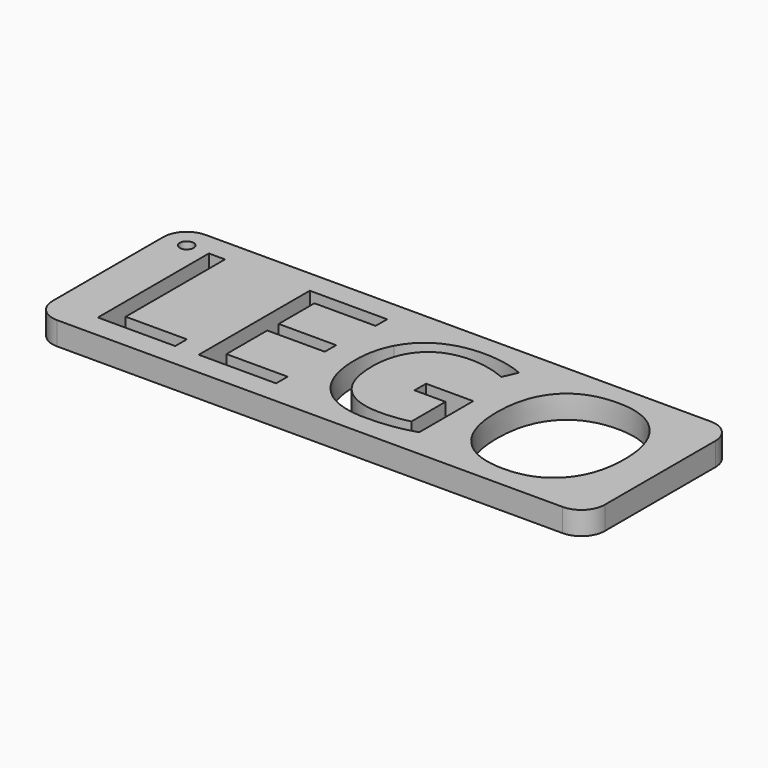
from build123d import *

# Parameters (mm, degrees)
F0_R     = 1.5
F1_DEPTH = 5


with BuildPart() as f1:
    # F0 (on Top) → F1 (new body)
    with BuildSketch(Plane.XY):
        with BuildLine():
            ThreePointArc((0, 5), (1.4644660941, 1.4644660941), (5, 0))
            Line((5, 0), (114.2781882361, 0))
            ThreePointArc((114.2781882361, 0), (117.8523813388, 1.4804792577), (119.3328605965, 5.0546723604))
            Line((119.3328605965, 5.0546723604), (119.3328605965, 34.9453276396))
            ThreePointArc((119.3328605965, 34.9453276396), (117.8523813388, 38.5195207423), (114.2781882361, 40))
            Line((114.2781882361, 40), (5.0546723604, 40))
            ThreePointArc((5.0546723604, 40), (1.4804792577, 38.5195207423), (0, 34.9453276396))
            Line((0, 34.9453276396), (0, 5))
        make_face()
        Polygon((26.4751705242, 5.0546723604), (9.7535998563, 5.0546723604), (9.7535998563, 35.0510824042), (13.2397223631, 35.0510824042), (13.2397223631, 8.2125347441), (26.4751705242, 8.2125347441), align=None, mode=Mode.SUBTRACT)
        Polygon((48.2847730993, 8.1731435293), (48.2847730993, 5.0546723604), (31.5632024314, 5.0546723604), (31.5632024314, 35.0510824042), (48.2847730993, 35.0510824042), (48.2847730993, 31.9523068427), (35.0493249381, 31.9523068427), (35.0493249381, 22.2883288202), (47.483818399, 22.2883288202), (47.483818399, 19.2092488661), (35.0493249381, 19.2092488661), (35.0493249381, 8.1731435293), align=None, mode=Mode.SUBTRACT)
        with Locations((5, 35)):
            Circle(F0_R, mode=Mode.SUBTRACT)
        with BuildLine():
            Line((68.1248149361, 17.6532958829), (68.1248149361, 20.7717670518))
            Line((68.1248149361, 20.7717670518), (78.3205743578, 20.7717670518))
            Line((78.3205743578, 20.7717670518), (78.3205743578, 6.1838871837))
            add(Edge.make_bspline(
                [(78.3205743578, 6.1838871837), (75.9374058645, 5.4223236982), (73.4754549417, 5.0316941518)],
                knots=[0, 0, 0, 1, 1, 1], degree=2))
            add(Edge.make_bspline(
                [(73.4754549417, 5.0316941518), (71.0135040188, 4.6410646054), (67.7702940032, 4.6410646054)],
                knots=[0, 0, 0, 1, 1, 1], degree=2))
            add(Edge.make_bspline(
                [(67.7702940032, 4.6410646054), (60.9621790512, 4.6410646054), (57.1674920288, 8.695077125)],
                knots=[0, 0, 0, 1, 1, 1], degree=2))
            add(Edge.make_bspline(
                [(57.1674920288, 8.695077125), (53.3728050064, 12.7490896446), (53.3728050064, 20.0495947811)],
                knots=[0, 0, 0, 1, 1, 1], degree=2))
            add(Edge.make_bspline(
                [(53.3728050064, 20.0495947811), (53.3728050064, 24.7305841357), (55.2504529103, 28.2495326547)],
                knots=[0, 0, 0, 1, 1, 1], degree=2))
            add(Edge.make_bspline(
                [(55.2504529103, 28.2495326547), (57.1281008141, 31.7684811738), (60.6568971368, 33.623150869)],
                knots=[0, 0, 0, 1, 1, 1], degree=2))
            add(Edge.make_bspline(
                [(60.6568971368, 33.623150869), (64.1856934595, 35.4778205642), (68.9192044338, 35.4778205642)],
                knots=[0, 0, 0, 1, 1, 1], degree=2))
            add(Edge.make_bspline(
                [(68.9192044338, 35.4778205642), (73.7249326352, 35.4778205642), (77.867575388, 33.7183463046)],
                knots=[0, 0, 0, 1, 1, 1], degree=2))
            Line((77.867575388, 33.7183463046), (76.5151436811, 30.6392663505))
            add(Edge.make_bspline(
                [(76.5151436811, 30.6392663505), (72.4512833578, 32.3593493952), (68.6959875501, 32.3593493952)],
                knots=[0, 0, 0, 1, 1, 1], degree=2))
            add(Edge.make_bspline(
                [(68.6959875501, 32.3593493952), (63.2206086978, 32.3593493952), (60.1415287436, 29.0997263734)],
                knots=[0, 0, 0, 1, 1, 1], degree=2))
            add(Edge.make_bspline(
                [(60.1415287436, 29.0997263734), (57.0624487895, 25.8401033516), (57.0624487895, 20.0495947811)],
                knots=[0, 0, 0, 1, 1, 1], degree=2))
            add(Edge.make_bspline(
                [(57.0624487895, 20.0495947811), (57.0624487895, 13.9767825048), (60.0266377006, 10.8386157285)],
                knots=[0, 0, 0, 1, 1, 1], degree=2))
            add(Edge.make_bspline(
                [(60.0266377006, 10.8386157285), (62.9908266116, 7.7004489522), (68.7353787649, 7.7004489522)],
                knots=[0, 0, 0, 1, 1, 1], degree=2))
            add(Edge.make_bspline(
                [(68.7353787649, 7.7004489522), (71.8538499338, 7.7004489522), (74.8278866486, 8.4226212229)],
                knots=[0, 0, 0, 1, 1, 1], degree=2))
            Line((74.8278866486, 8.4226212229), (74.8278866486, 17.6532958829))
            Line((74.8278866486, 17.6532958829), (68.1248149361, 17.6532958829))
        make_face(mode=Mode.SUBTRACT)
        with BuildLine():
            add(Edge.make_bspline(
                [(107.9230722539, 31.4205254433), (111.5536292148, 27.3172739053), (111.5536292148, 20.0955511983)],
                knots=[0, 0, 0, 1, 1, 1], degree=2))
            add(Edge.make_bspline(
                [(111.5536292148, 20.0955511983), (111.5536292148, 12.8935240987), (107.909941849, 8.767294352)],
                knots=[0, 0, 0, 1, 1, 1], degree=2))
            add(Edge.make_bspline(
                [(107.909941849, 8.767294352), (104.2662544832, 4.6410646054), (97.7863996543, 4.6410646054)],
                knots=[0, 0, 0, 1, 1, 1], degree=2))
            add(Edge.make_bspline(
                [(97.7863996543, 4.6410646054), (91.1621103713, 4.6410646054), (87.5610968215, 8.695077125)],
                knots=[0, 0, 0, 1, 1, 1], degree=2))
            add(Edge.make_bspline(
                [(87.5610968215, 8.695077125), (83.9600832717, 12.7490896446), (83.9600832717, 20.1349424131)],
                knots=[0, 0, 0, 1, 1, 1], degree=2))
            add(Edge.make_bspline(
                [(83.9600832717, 20.1349424131), (83.9600832717, 27.4617083594), (87.5709446252, 31.4927426704)],
                knots=[0, 0, 0, 1, 1, 1], degree=2))
            add(Edge.make_bspline(
                [(87.5709446252, 31.4927426704), (91.1818059787, 35.5237769814), (97.8257908691, 35.5237769814)],
                knots=[0, 0, 0, 1, 1, 1], degree=2))
            add(Edge.make_bspline(
                [(97.8257908691, 35.5237769814), (104.2925152931, 35.5237769814), (107.9230722539, 31.4205254433)],
                knots=[0, 0, 0, 1, 1, 1], degree=2))
        make_face(mode=Mode.SUBTRACT)
    extrude(amount=F1_DEPTH)


solid = f1.part
